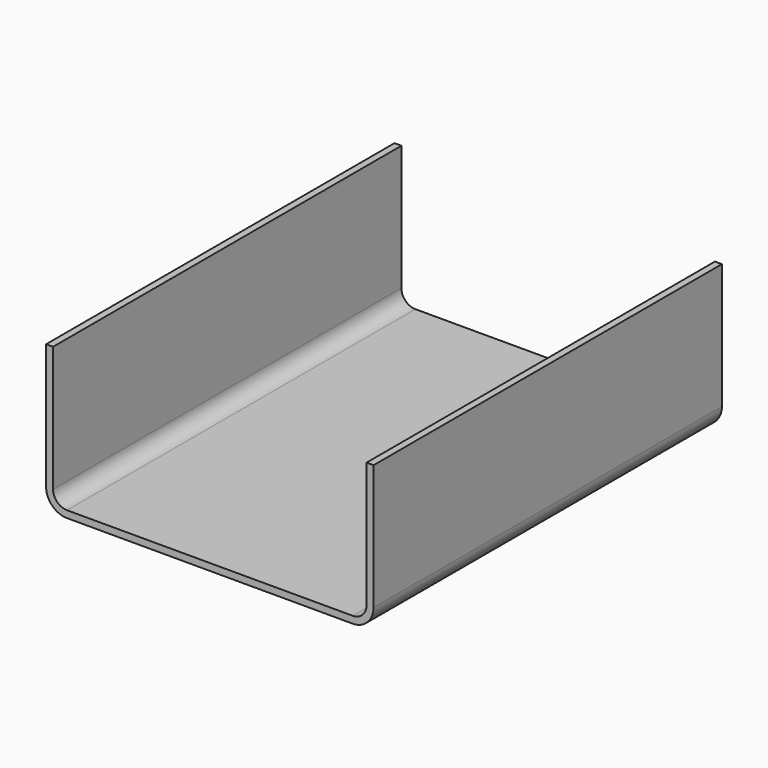
from build123d import *

# Parameters (mm, degrees)
F0_W     = 47
F0_H     = 62.5
F1_DEPTH = 21
F2_R     = 3
F3_T     = -1


with BuildPart() as f1:
    # F0 (on Top) → F1 (new body)
    with BuildSketch(Plane.XY):
        Rectangle(F0_W, F0_H)
    extrude(amount=F1_DEPTH)

    # F2
    f2_edges = [f1.edges().sort_by_distance(p)[0] for p in [
        (23.5, 0, 0),
        (-23.5, 0, 0),
    ]]
    fillet(f2_edges, radius=F2_R)

    # F3
    f3_openings = [f1.faces().sort_by_distance(p)[0] for p in [
        (0, 0, 21),
        (0, -31.25, 10.538623),
        (0, 31.25, 10.538623),
    ]]
    offset(amount=F3_T, openings=f3_openings)


solid = f1.part
